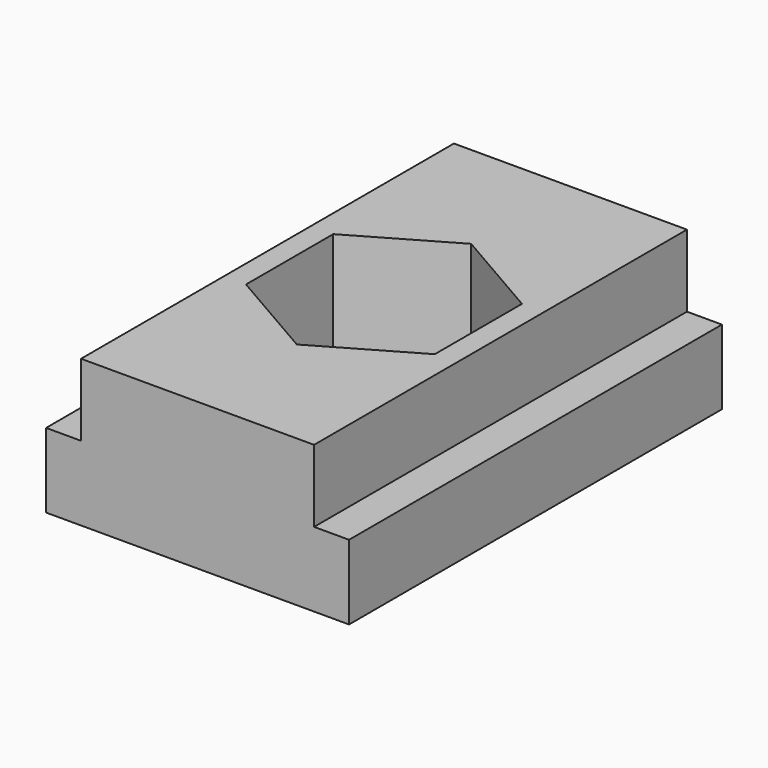
from build123d import *

# Parameters (mm, degrees)
PAD_DEPTH       = 10
SKETCH001_R     = 2.5
POCKET_DEPTH    = 6.301
POCKET001_DEPTH = 4.5


with BuildPart() as part:
    # Sketch → Pad (new body, symmetric)
    with BuildSketch(Plane.XZ):
        Polygon((-6.5, 0), (-6.5, 3.2), (-5, 3.2), (-5, 6.3), (5, 6.3), (5, 3.2), (6.5, 3.2), (6.5, 0), (0, 0), align=None)
    extrude(amount=PAD_DEPTH, both=True)

    # Sketch001 (on Face4 of Pad) → Pocket (cut, through all)
    with BuildSketch(Plane(origin=(0, 0, 6.3), x_dir=(-1, 0, 0), z_dir=(0, 0, 1))):
        Circle(SKETCH001_R)
    extrude(amount=-POCKET_DEPTH, mode=Mode.SUBTRACT)

    # Sketch002 (on Face9 of Pocket) → Pocket001 (cut)
    with BuildSketch(Plane(origin=(0, 0, 6.3), x_dir=(-1, 0, 0), z_dir=(0, 0, 1))):
        Polygon((-4.05, 2.338269), (-4.05, -2.338269), (0, -4.676537), (4.05, -2.338269), (4.05, 2.338269), (0, 4.676537), align=None)
    extrude(amount=-POCKET001_DEPTH, mode=Mode.SUBTRACT)


solid = part.part
